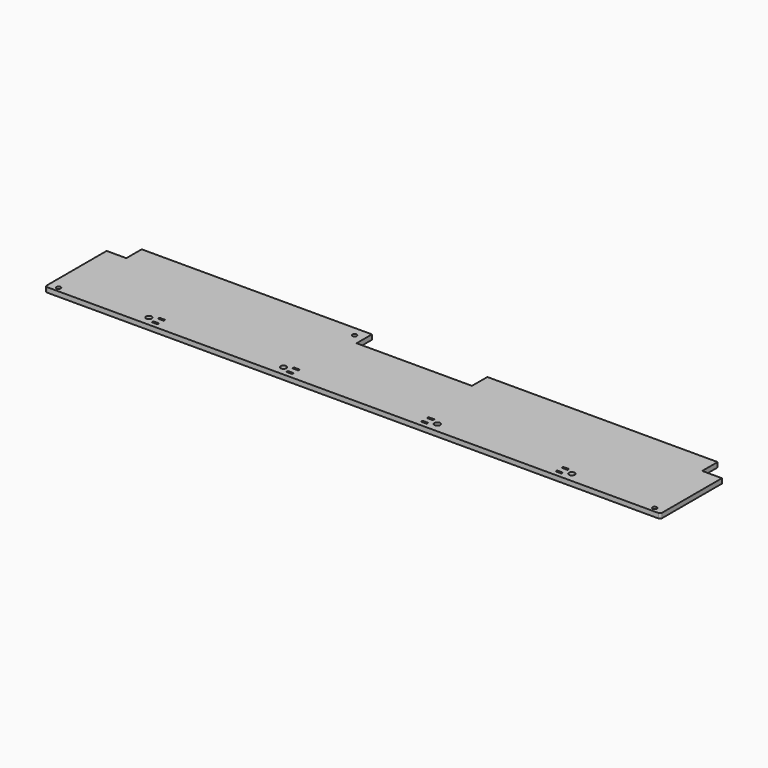
from build123d import *

# Parameters (mm, degrees)
F0_R     = 2.25
F0_W     = 6
F0_H     = 2
F0_R_2   = 3
F1_DEPTH = 5


with BuildPart() as f1:
    # F0 (on Top) → F1 (new body)
    with BuildSketch(Plane.XY):
        with BuildLine():
            ThreePointArc((-170, -8), (-169.414214, -9.414214), (-168, -10))
            Line((-168, -10), (468, -10))
            ThreePointArc((468, -10), (469.414214, -9.414214), (470, -8))
            Line((470, -8), (470, 70))
            Line((470, 70), (449.5, 70))
            Line((449.5, 70), (449.5, 90))
            Line((449.5, 90), (210, 90))
            Line((210, 90), (210, 70))
            Line((210, 70), (90, 70))
            Line((90, 70), (90, 90))
            Line((90, 90), (-149.5, 90))
            Line((-149.5, 90), (-149.5, 70))
            Line((-149.5, 70), (-170, 70))
            Line((-170, 70), (-170, -8))
        make_face()
        with Locations((-160, -5)):
            Circle(F0_R, mode=Mode.SUBTRACT)
        with Locations((-60, -4)):
            Rectangle(F0_W, F0_H, mode=Mode.SUBTRACT)
        with Locations((-70, 0)):
            Circle(F0_R_2, mode=Mode.SUBTRACT)
        with Locations((-60, 4)):
            Rectangle(F0_W, F0_H, mode=Mode.SUBTRACT)
        with Locations((80, -4)):
            Rectangle(F0_W, F0_H, mode=Mode.SUBTRACT)
        with Locations((70, 0)):
            Circle(F0_R_2, mode=Mode.SUBTRACT)
        with Locations((80, 4)):
            Rectangle(F0_W, F0_H, mode=Mode.SUBTRACT)
        with Locations((220, -4)):
            Rectangle(F0_W, F0_H, mode=Mode.SUBTRACT)
        with Locations((230, 0)):
            Circle(F0_R_2, mode=Mode.SUBTRACT)
        with Locations((220, 4)):
            Rectangle(F0_W, F0_H, mode=Mode.SUBTRACT)
        with Locations((360, -4)):
            Rectangle(F0_W, F0_H, mode=Mode.SUBTRACT)
        with Locations((370, 0)):
            Circle(F0_R_2, mode=Mode.SUBTRACT)
        with Locations((460, -5)):
            Circle(F0_R, mode=Mode.SUBTRACT)
        with Locations((360, 4)):
            Rectangle(F0_W, F0_H, mode=Mode.SUBTRACT)
        with Locations((80, 80)):
            Circle(F0_R, mode=Mode.SUBTRACT)
    extrude(amount=F1_DEPTH)


solid = f1.part
